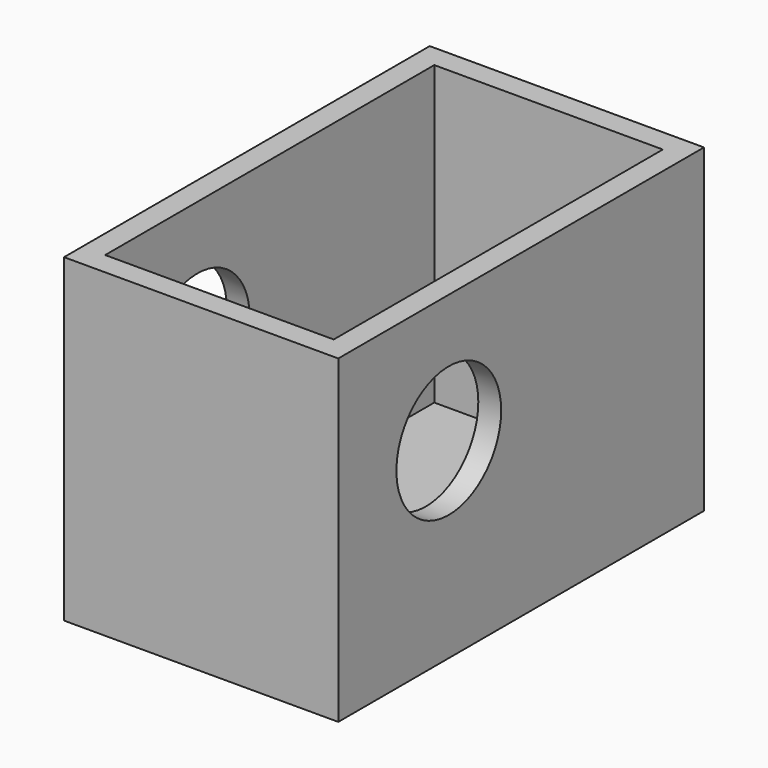
from build123d import *

# Parameters (mm, degrees)
F0_W     = 76.2
F0_H     = 127
F1_DEPTH = 88.9
F2_W     = 63.5
F2_H     = 114.3
F3_DEPTH = 82.55
F4_R     = 18.190192
F5_DEPTH = 76.201


with BuildPart() as f1:
    # F0 (on Top) → F1 (new body)
    with BuildSketch(Plane.XY):
        Rectangle(F0_W, F0_H)
    extrude(amount=F1_DEPTH)

    # F2 (on face) → F3 (cut)
    with BuildSketch(Plane.XY.offset(88.9)):
        Rectangle(F2_W, F2_H)
    extrude(amount=-F3_DEPTH, mode=Mode.SUBTRACT)

    # F4 (on face) → F5 (cut, through all)
    with BuildSketch(Plane.YZ.offset(38.1)):
        with Locations((-25.125185, 53.211018)):
            Circle(F4_R)
    extrude(amount=-F5_DEPTH, mode=Mode.SUBTRACT)


solid = f1.part
